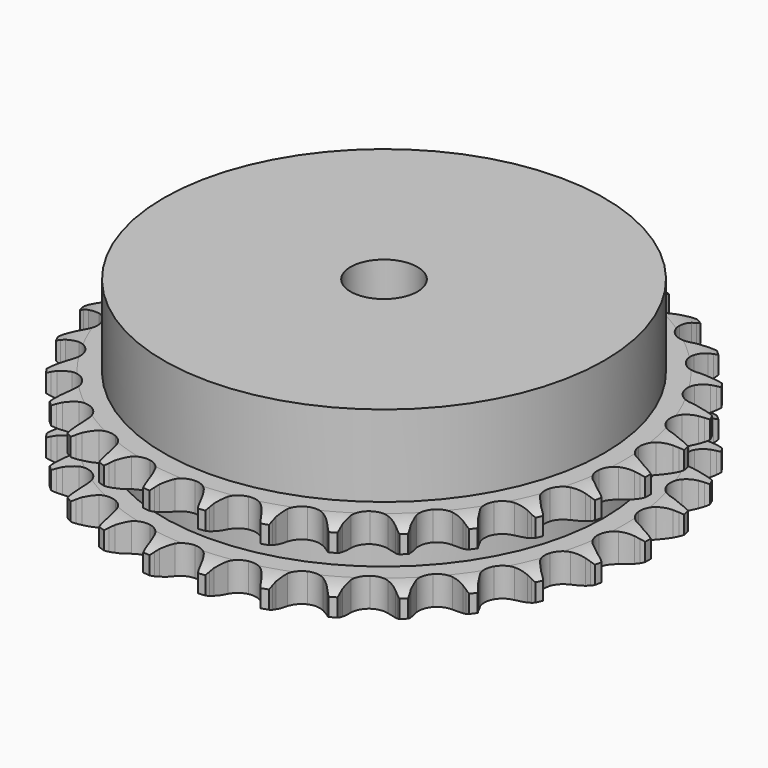
from build123d import *

# Parameters (mm, degrees)
PAD_DEPTH         = 15.4
SKETCH001_R       = 39.5
PAD001_DEPTH      = 30
SKETCH002_R       = 6
POCKET_DEPTH      = 0.001
POCKET_DEPTH_BACK = 30.001


with BuildPart() as part:
    # Sprocket → Pad (new body)
    with BuildSketch(Plane.XY):
        with BuildLine():
            ThreePointArc((-5.060688, 48.149228), (-4.457638, 47.360855), (-4.016581, 46.47166))
            Line((-4.016581, 46.47166), (-3.706936, 45.659362))
            ThreePointArc((-3.706936, 45.659362), (-3.214807, 44.599161), (-2.578774, 43.618507))
            ThreePointArc((-2.578774, 43.618507), (-1.440762, 42.672032), (0, 42.332778))
            ThreePointArc((0, 42.332778), (1.440762, 42.672032), (2.578774, 43.618507))
            ThreePointArc((2.578774, 43.618507), (3.214807, 44.599161), (3.706936, 45.659362))
            Line((3.706936, 45.659362), (4.016581, 46.47166))
            ThreePointArc((4.016581, 46.47166), (4.457638, 47.360855), (5.060688, 48.149228))
            ThreePointArc((5.060688, 48.149228), (5.486647, 47.252702), (5.733192, 46.291237))
            Line((5.733192, 46.291237), (5.867184, 45.432311))
            ThreePointArc((5.867184, 45.432311), (6.128131, 44.292958), (6.546376, 43.201495))
            ThreePointArc((6.546376, 43.201495), (7.462737, 42.039097), (8.801479, 41.407705))
            ThreePointArc((8.801479, 41.407705), (10.281292, 41.439995), (11.591219, 42.129181))
            Line((11.591219, 42.129181), (13.119046, 43.89088))
            ThreePointArc((13.119046, 43.89088), (13.345373, 44.262138), (13.590811, 44.621049))
            ThreePointArc((13.590811, 44.621049), (14.207104, 45.399112), (14.960887, 46.044875))
            ThreePointArc((14.960887, 46.044875), (15.19114, 45.079379), (15.232397, 44.087665))
            Line((15.232397, 44.087665), (15.184881, 43.21965))
            ThreePointArc((15.184881, 43.21965), (15.20324, 42.05094), (15.385418, 40.896371))
            ThreePointArc((15.385418, 40.896371), (16.040078, 39.568852), (17.218292, 38.672917))
            ThreePointArc((17.218292, 38.672917), (18.67248, 38.396831), (20.097073, 38.798607))
            Line((20.097073, 38.798607), (21.957791, 40.204156))
            ThreePointArc((21.957791, 40.204156), (22.25636, 40.520245), (22.571057, 40.820283))
            ThreePointArc((22.571057, 40.820283), (23.335651, 41.453209), (24.207223, 41.928141))
            ThreePointArc((24.207223, 41.928141), (24.231707, 40.935871), (24.065874, 39.95725))
            Line((24.065874, 39.95725), (23.838925, 39.118083))
            ThreePointArc((23.838925, 39.118083), (23.613895, 37.971095), (23.552043, 36.803879))
            ThreePointArc((23.552043, 36.803879), (23.916391, 35.369258), (24.882582, 34.247937))
            ThreePointArc((24.882582, 34.247937), (26.247592, 33.675541), (27.724587, 33.772348))
            Line((27.724587, 33.772348), (29.836874, 34.760318))
            ThreePointArc((29.836874, 34.760318), (30.194638, 35.007423), (30.564839, 35.235475))
            ThreePointArc((30.564839, 35.235475), (31.444317, 35.695603), (32.395588, 35.978946))
            ThreePointArc((32.395588, 35.978946), (32.213232, 35.003269), (31.847556, 34.080512))
            Line((31.847556, 34.080512), (31.451094, 33.306867))
            ThreePointArc((31.451094, 33.306867), (30.99251, 32.231731), (30.689331, 31.102881))
            ThreePointArc((30.689331, 31.102881), (30.747442, 29.623857), (31.459385, 28.326157))
            ThreePointArc((31.459385, 28.326157), (32.675558, 27.482468), (34.140405, 27.270075))
            Line((34.140405, 27.270075), (36.411943, 27.797286))
            ThreePointArc((36.411943, 27.797286), (36.813266, 27.964609), (37.222791, 28.110708))
            ThreePointArc((37.222791, 28.110708), (38.178717, 28.377927), (39.16811, 28.457298))
            ThreePointArc((39.16811, 28.457298), (38.786884, 27.540856), (38.237347, 26.714291))
            Line((38.237347, 26.714291), (37.6887, 26.039982))
            ThreePointArc((37.6887, 26.039982), (37.016602, 25.083685), (36.485348, 24.042537))
            ThreePointArc((36.485348, 24.042537), (36.234683, 22.583752), (36.661261, 21.166389))
            ThreePointArc((36.661261, 21.166389), (37.675445, 20.08828), (39.064122, 19.57597))
            Line((39.064122, 19.57597), (41.395636, 19.61938))
            ThreePointArc((41.395636, 19.61938), (41.822977, 19.699607), (42.253929, 19.757369))
            ThreePointArc((42.253929, 19.757369), (43.244523, 19.819999), (44.228798, 19.69193))
            ThreePointArc((44.228798, 19.69193), (43.665364, 18.874775), (42.955983, 18.180529))
            Line((42.955983, 18.180529), (42.279128, 17.635025))
            ThreePointArc((42.279128, 17.635025), (41.422892, 16.839362), (40.68678, 15.93142))
            ThreePointArc((40.68678, 15.93142), (40.138294, 14.556629), (40.260864, 13.081548))
            ThreePointArc((40.260864, 13.081548), (41.028734, 11.816137), (42.28055, 11.0263))
            Line((42.28055, 11.0263), (44.57014, 10.584013))
            ThreePointArc((44.57014, 10.584013), (45.004823, 10.573637), (45.438367, 10.540537))
            ThreePointArc((45.438367, 10.540537), (46.420336, 10.395843), (47.356475, 10.06593))
            ThreePointArc((47.356475, 10.06593), (46.635457, 9.383776), (45.797236, 8.852189))
            Line((45.797236, 8.852189), (45.021755, 8.459332))
            ThreePointArc((45.021755, 8.459332), (44.018803, 7.859078), (43.110005, 7.124023))
            ThreePointArc((43.110005, 7.124023), (42.28767, 5.893311), (42.100874, 4.42498))
            ThreePointArc((42.100874, 4.42498), (42.588871, 3.027573), (43.649116, 1.994728))
            Line((43.649116, 1.994728), (45.796716, 1.086074))
            ThreePointArc((45.796716, 1.086074), (46.219742, 0.985549), (46.63693, 0.863033))
            ThreePointArc((46.63693, 0.863033), (47.567358, 0.517338), (48.414447, 0))
            ThreePointArc((48.414447, 0), (47.567358, -0.517338), (46.63693, -0.863033))
            Line((46.63693, -0.863033), (45.796716, -1.086074))
            ThreePointArc((45.796716, -1.086074), (44.690881, -1.464686), (43.649116, -1.994728))
            ThreePointArc((43.649116, -1.994728), (42.588871, -3.027573), (42.100874, -4.42498))
            ThreePointArc((42.100874, -4.42498), (42.28767, -5.893311), (43.110005, -7.124023))
            Line((43.110005, -7.124023), (45.021755, -8.459332))
            ThreePointArc((45.021755, -8.459332), (45.414637, -8.645612), (45.797236, -8.852189))
            ThreePointArc((45.797236, -8.852189), (46.635457, -9.383776), (47.356475, -10.06593))
            ThreePointArc((47.356475, -10.06593), (46.420336, -10.395843), (45.438367, -10.540537))
            Line((45.438367, -10.540537), (44.57014, -10.584013))
            ThreePointArc((44.57014, -10.584013), (43.409752, -10.724435), (42.28055, -11.0263))
            ThreePointArc((42.28055, -11.0263), (41.028734, -11.816137), (40.260864, -13.081548))
            ThreePointArc((40.260864, -13.081548), (40.138294, -14.556629), (40.68678, -15.93142))
            Line((40.68678, -15.93142), (42.279128, -17.635025))
            ThreePointArc((42.279128, -17.635025), (42.624694, -17.898919), (42.955983, -18.180529))
            ThreePointArc((42.955983, -18.180529), (43.665364, -18.874775), (44.228798, -19.69193))
            ThreePointArc((44.228798, -19.69193), (43.244523, -19.819999), (42.253929, -19.757369))
            Line((42.253929, -19.757369), (41.395636, -19.61938))
            ThreePointArc((41.395636, -19.61938), (40.23141, -19.515476), (39.064122, -19.57597))
            ThreePointArc((39.064122, -19.57597), (37.675445, -20.08828), (36.661261, -21.166389))
            ThreePointArc((36.661261, -21.166389), (36.234683, -22.583752), (36.485348, -24.042537))
            Line((36.485348, -24.042537), (37.6887, -26.039982))
            ThreePointArc((37.6887, -26.039982), (37.971848, -26.369957), (38.237347, -26.714291))
            ThreePointArc((38.237347, -26.714291), (38.786884, -27.540856), (39.16811, -28.457298))
            ThreePointArc((39.16811, -28.457298), (38.178717, -28.377927), (37.222791, -28.110708))
            Line((37.222791, -28.110708), (36.411943, -27.797286))
            ThreePointArc((36.411943, -27.797286), (35.294761, -27.453596), (34.140405, -27.270075))
            ThreePointArc((34.140405, -27.270075), (32.675558, -27.482468), (31.459385, -28.326157))
            ThreePointArc((31.459385, -28.326157), (30.747442, -29.623857), (30.689331, -31.102881))
            Line((30.689331, -31.102881), (31.451094, -33.306867))
            ThreePointArc((31.451094, -33.306867), (31.65945, -33.688501), (31.847556, -34.080512))
            ThreePointArc((31.847556, -34.080512), (32.213232, -35.003269), (32.395588, -35.978946))
            ThreePointArc((32.395588, -35.978946), (31.444317, -35.695603), (30.564839, -35.235475))
            Line((30.564839, -35.235475), (29.836874, -34.760318))
            ThreePointArc((29.836874, -34.760318), (28.815562, -34.191863), (27.724587, -33.772348))
            ThreePointArc((27.724587, -33.772348), (26.247592, -33.675541), (24.882582, -34.247937))
            ThreePointArc((24.882582, -34.247937), (23.916391, -35.369258), (23.552043, -36.803879))
            Line((23.552043, -36.803879), (23.838925, -39.118083))
            ThreePointArc((23.838925, -39.118083), (23.963382, -39.534696), (24.065874, -39.95725))
            ThreePointArc((24.065874, -39.95725), (24.231707, -40.935871), (24.207223, -41.928141))
            ThreePointArc((24.207223, -41.928141), (23.335651, -41.453209), (22.571057, -40.820283))
            Line((22.571057, -40.820283), (21.957791, -40.204156))
            ThreePointArc((21.957791, -40.204156), (21.076985, -39.435781), (20.097073, -38.798607))
            ThreePointArc((20.097073, -38.798607), (18.67248, -38.396831), (17.218292, -38.672917))
            ThreePointArc((17.218292, -38.672917), (16.040078, -39.568852), (15.385418, -40.896371))
            Line((15.385418, -40.896371), (15.184881, -43.21965))
            ThreePointArc((15.184881, -43.21965), (15.219999, -43.653035), (15.232397, -44.087665))
            ThreePointArc((15.232397, -44.087665), (15.19114, -45.079379), (14.960887, -46.044875))
            ThreePointArc((14.960887, -46.044875), (14.207104, -45.399112), (13.590811, -44.621049))
            Line((13.590811, -44.621049), (13.119046, -43.89088))
            ThreePointArc((13.119046, -43.89088), (12.417243, -42.956166), (11.591219, -42.129181))
            ThreePointArc((11.591219, -42.129181), (10.281292, -41.439995), (8.801479, -41.407705))
            ThreePointArc((8.801479, -41.407705), (7.462737, -42.039097), (6.546376, -43.201495))
            Line((6.546376, -43.201495), (5.867184, -45.432311))
            ThreePointArc((5.867184, -45.432311), (5.811429, -45.863528), (5.733192, -46.291237))
            ThreePointArc((5.733192, -46.291237), (5.486647, -47.252702), (5.060688, -48.149228))
            ThreePointArc((5.060688, -48.149228), (4.457638, -47.360855), (4.016581, -46.47166))
            Line((4.016581, -46.47166), (3.706936, -45.659362))
            ThreePointArc((3.706936, -45.659362), (3.214807, -44.599161), (2.578774, -43.618507))
            ThreePointArc((2.578774, -43.618507), (1.440762, -42.672032), (0, -42.332778))
            ThreePointArc((0, -42.332778), (-1.440762, -42.672032), (-2.578774, -43.618507))
            Line((-2.578774, -43.618507), (-3.706936, -45.659362))
            ThreePointArc((-3.706936, -45.659362), (-3.851128, -46.069563), (-4.016581, -46.47166))
            ThreePointArc((-4.016581, -46.47166), (-4.457638, -47.360855), (-5.060688, -48.149228))
            ThreePointArc((-5.060688, -48.149228), (-5.486647, -47.252702), (-5.733192, -46.291237))
            Line((-5.733192, -46.291237), (-5.867184, -45.432311))
            ThreePointArc((-5.867184, -45.432311), (-6.128131, -44.292958), (-6.546376, -43.201495))
            ThreePointArc((-6.546376, -43.201495), (-7.462737, -42.039097), (-8.801479, -41.407705))
            ThreePointArc((-8.801479, -41.407705), (-10.281292, -41.439995), (-11.591219, -42.129181))
            Line((-11.591219, -42.129181), (-13.119046, -43.89088))
            ThreePointArc((-13.119046, -43.89088), (-13.345373, -44.262138), (-13.590811, -44.621049))
            ThreePointArc((-13.590811, -44.621049), (-14.207104, -45.399112), (-14.960887, -46.044875))
            ThreePointArc((-14.960887, -46.044875), (-15.19114, -45.079379), (-15.232397, -44.087665))
            Line((-15.232397, -44.087665), (-15.184881, -43.21965))
            ThreePointArc((-15.184881, -43.21965), (-15.20324, -42.05094), (-15.385418, -40.896371))
            ThreePointArc((-15.385418, -40.896371), (-16.040078, -39.568852), (-17.218292, -38.672917))
            ThreePointArc((-17.218292, -38.672917), (-18.67248, -38.396831), (-20.097073, -38.798607))
            Line((-20.097073, -38.798607), (-21.957791, -40.204156))
            ThreePointArc((-21.957791, -40.204156), (-22.25636, -40.520245), (-22.571057, -40.820283))
            ThreePointArc((-22.571057, -40.820283), (-23.335651, -41.453209), (-24.207223, -41.928141))
            ThreePointArc((-24.207223, -41.928141), (-24.231707, -40.935871), (-24.065874, -39.95725))
            Line((-24.065874, -39.95725), (-23.838925, -39.118083))
            ThreePointArc((-23.838925, -39.118083), (-23.613895, -37.971095), (-23.552043, -36.803879))
            ThreePointArc((-23.552043, -36.803879), (-23.916391, -35.369258), (-24.882582, -34.247937))
            ThreePointArc((-24.882582, -34.247937), (-26.247592, -33.675541), (-27.724587, -33.772348))
            Line((-27.724587, -33.772348), (-29.836874, -34.760318))
            ThreePointArc((-29.836874, -34.760318), (-30.194638, -35.007423), (-30.564839, -35.235475))
            ThreePointArc((-30.564839, -35.235475), (-31.444317, -35.695603), (-32.395588, -35.978946))
            ThreePointArc((-32.395588, -35.978946), (-32.213232, -35.003269), (-31.847556, -34.080512))
            Line((-31.847556, -34.080512), (-31.451094, -33.306867))
            ThreePointArc((-31.451094, -33.306867), (-30.99251, -32.231731), (-30.689331, -31.102881))
            ThreePointArc((-30.689331, -31.102881), (-30.747442, -29.623857), (-31.459385, -28.326157))
            ThreePointArc((-31.459385, -28.326157), (-32.675558, -27.482468), (-34.140405, -27.270075))
            Line((-34.140405, -27.270075), (-36.411943, -27.797286))
            ThreePointArc((-36.411943, -27.797286), (-36.813266, -27.964609), (-37.222791, -28.110708))
            ThreePointArc((-37.222791, -28.110708), (-38.178717, -28.377927), (-39.16811, -28.457298))
            ThreePointArc((-39.16811, -28.457298), (-38.786884, -27.540856), (-38.237347, -26.714291))
            Line((-38.237347, -26.714291), (-37.6887, -26.039982))
            ThreePointArc((-37.6887, -26.039982), (-37.016602, -25.083685), (-36.485348, -24.042537))
            ThreePointArc((-36.485348, -24.042537), (-36.234683, -22.583752), (-36.661261, -21.166389))
            ThreePointArc((-36.661261, -21.166389), (-37.675445, -20.08828), (-39.064122, -19.57597))
            Line((-39.064122, -19.57597), (-41.395636, -19.61938))
            ThreePointArc((-41.395636, -19.61938), (-41.822977, -19.699607), (-42.253929, -19.757369))
            ThreePointArc((-42.253929, -19.757369), (-43.244523, -19.819999), (-44.228798, -19.69193))
            ThreePointArc((-44.228798, -19.69193), (-43.665364, -18.874775), (-42.955983, -18.180529))
            Line((-42.955983, -18.180529), (-42.279128, -17.635025))
            ThreePointArc((-42.279128, -17.635025), (-41.422892, -16.839362), (-40.68678, -15.93142))
            ThreePointArc((-40.68678, -15.93142), (-40.138294, -14.556629), (-40.260864, -13.081548))
            ThreePointArc((-40.260864, -13.081548), (-41.028734, -11.816137), (-42.28055, -11.0263))
            Line((-42.28055, -11.0263), (-44.57014, -10.584013))
            ThreePointArc((-44.57014, -10.584013), (-45.004823, -10.573637), (-45.438367, -10.540537))
            ThreePointArc((-45.438367, -10.540537), (-46.420336, -10.395843), (-47.356475, -10.06593))
            ThreePointArc((-47.356475, -10.06593), (-46.635457, -9.383776), (-45.797236, -8.852189))
            Line((-45.797236, -8.852189), (-45.021755, -8.459332))
            ThreePointArc((-45.021755, -8.459332), (-44.018803, -7.859078), (-43.110005, -7.124023))
            ThreePointArc((-43.110005, -7.124023), (-42.28767, -5.893311), (-42.100874, -4.42498))
            ThreePointArc((-42.100874, -4.42498), (-42.588871, -3.027573), (-43.649116, -1.994728))
            Line((-43.649116, -1.994728), (-45.796716, -1.086074))
            ThreePointArc((-45.796716, -1.086074), (-46.219742, -0.985549), (-46.63693, -0.863033))
            ThreePointArc((-46.63693, -0.863033), (-47.567358, -0.517338), (-48.414447, 0))
            ThreePointArc((-48.414447, 0), (-47.567358, 0.517338), (-46.63693, 0.863033))
            Line((-46.63693, 0.863033), (-45.796716, 1.086074))
            ThreePointArc((-45.796716, 1.086074), (-44.690881, 1.464686), (-43.649116, 1.994728))
            ThreePointArc((-43.649116, 1.994728), (-42.588871, 3.027573), (-42.100874, 4.42498))
            ThreePointArc((-42.100874, 4.42498), (-42.28767, 5.893311), (-43.110005, 7.124023))
            Line((-43.110005, 7.124023), (-45.021755, 8.459332))
            ThreePointArc((-45.021755, 8.459332), (-45.414637, 8.645612), (-45.797236, 8.852189))
            ThreePointArc((-45.797236, 8.852189), (-46.635457, 9.383776), (-47.356475, 10.06593))
            ThreePointArc((-47.356475, 10.06593), (-46.420336, 10.395843), (-45.438367, 10.540537))
            Line((-45.438367, 10.540537), (-44.57014, 10.584013))
            ThreePointArc((-44.57014, 10.584013), (-43.409752, 10.724435), (-42.28055, 11.0263))
            ThreePointArc((-42.28055, 11.0263), (-41.028734, 11.816137), (-40.260864, 13.081548))
            ThreePointArc((-40.260864, 13.081548), (-40.138294, 14.556629), (-40.68678, 15.93142))
            Line((-40.68678, 15.93142), (-42.279128, 17.635025))
            ThreePointArc((-42.279128, 17.635025), (-42.624694, 17.898919), (-42.955983, 18.180529))
            ThreePointArc((-42.955983, 18.180529), (-43.665364, 18.874775), (-44.228798, 19.69193))
            ThreePointArc((-44.228798, 19.69193), (-43.244523, 19.819999), (-42.253929, 19.757369))
            Line((-42.253929, 19.757369), (-41.395636, 19.61938))
            ThreePointArc((-41.395636, 19.61938), (-40.23141, 19.515476), (-39.064122, 19.57597))
            ThreePointArc((-39.064122, 19.57597), (-37.675445, 20.08828), (-36.661261, 21.166389))
            ThreePointArc((-36.661261, 21.166389), (-36.234683, 22.583752), (-36.485348, 24.042537))
            Line((-36.485348, 24.042537), (-37.6887, 26.039982))
            ThreePointArc((-37.6887, 26.039982), (-37.971848, 26.369957), (-38.237347, 26.714291))
            ThreePointArc((-38.237347, 26.714291), (-38.786884, 27.540856), (-39.16811, 28.457298))
            ThreePointArc((-39.16811, 28.457298), (-38.178717, 28.377927), (-37.222791, 28.110708))
            Line((-37.222791, 28.110708), (-36.411943, 27.797286))
            ThreePointArc((-36.411943, 27.797286), (-35.294761, 27.453596), (-34.140405, 27.270075))
            ThreePointArc((-34.140405, 27.270075), (-32.675558, 27.482468), (-31.459385, 28.326157))
            ThreePointArc((-31.459385, 28.326157), (-30.747442, 29.623857), (-30.689331, 31.102881))
            Line((-30.689331, 31.102881), (-31.451094, 33.306867))
            ThreePointArc((-31.451094, 33.306867), (-31.65945, 33.688501), (-31.847556, 34.080512))
            ThreePointArc((-31.847556, 34.080512), (-32.213232, 35.003269), (-32.395588, 35.978946))
            ThreePointArc((-32.395588, 35.978946), (-31.444317, 35.695603), (-30.564839, 35.235475))
            Line((-30.564839, 35.235475), (-29.836874, 34.760318))
            ThreePointArc((-29.836874, 34.760318), (-28.815562, 34.191863), (-27.724587, 33.772348))
            ThreePointArc((-27.724587, 33.772348), (-26.247592, 33.675541), (-24.882582, 34.247937))
            ThreePointArc((-24.882582, 34.247937), (-23.916391, 35.369258), (-23.552043, 36.803879))
            Line((-23.552043, 36.803879), (-23.838925, 39.118083))
            ThreePointArc((-23.838925, 39.118083), (-23.963382, 39.534696), (-24.065874, 39.95725))
            ThreePointArc((-24.065874, 39.95725), (-24.231707, 40.935871), (-24.207223, 41.928141))
            ThreePointArc((-24.207223, 41.928141), (-23.335651, 41.453209), (-22.571057, 40.820283))
            Line((-22.571057, 40.820283), (-21.957791, 40.204156))
            ThreePointArc((-21.957791, 40.204156), (-21.076985, 39.435781), (-20.097073, 38.798607))
            ThreePointArc((-20.097073, 38.798607), (-18.67248, 38.396831), (-17.218292, 38.672917))
            ThreePointArc((-17.218292, 38.672917), (-16.040078, 39.568852), (-15.385418, 40.896371))
            Line((-15.385418, 40.896371), (-15.184881, 43.21965))
            ThreePointArc((-15.184881, 43.21965), (-15.219999, 43.653035), (-15.232397, 44.087665))
            ThreePointArc((-15.232397, 44.087665), (-15.19114, 45.079379), (-14.960887, 46.044875))
            ThreePointArc((-14.960887, 46.044875), (-14.207104, 45.399112), (-13.590811, 44.621049))
            Line((-13.590811, 44.621049), (-13.119046, 43.89088))
            ThreePointArc((-13.119046, 43.89088), (-12.417243, 42.956166), (-11.591219, 42.129181))
            ThreePointArc((-11.591219, 42.129181), (-10.281292, 41.439995), (-8.801479, 41.407705))
            ThreePointArc((-8.801479, 41.407705), (-7.462737, 42.039097), (-6.546376, 43.201495))
            Line((-6.546376, 43.201495), (-5.867184, 45.432311))
            ThreePointArc((-5.867184, 45.432311), (-5.811429, 45.863528), (-5.733192, 46.291237))
            ThreePointArc((-5.733192, 46.291237), (-5.486647, 47.252702), (-5.060688, 48.149228))
        make_face()
    extrude(amount=PAD_DEPTH)

    # Sketch → Groove (revolve, cut)
    with BuildSketch(Plane.XZ):
        with BuildLine():
            ThreePointArc((42.991101, 0), (45.227169, 0.253206), (47.35, 1))
            Line((47.35, 1), (47.35, 4.2))
            ThreePointArc((47.35, 4.2), (45.227169, 4.946794), (42.991101, 5.2))
            Line((39.5, 5.2), (42.991101, 5.2))
            Line((39.5, 10.2), (39.5, 5.2))
            Line((42.991101, 10.2), (39.5, 10.2))
            ThreePointArc((42.991101, 10.2), (45.227169, 10.453206), (47.35, 11.2))
            Line((47.35, 11.2), (47.35, 14.4))
            ThreePointArc((47.35, 14.4), (45.227169, 15.146794), (42.991101, 15.4))
            Line((42.991101, 15.4), (52.991101, 15.4))
            Line((52.991101, 15.4), (52.991101, 0))
            Line((42.991101, 0), (52.991101, 0))
        make_face()
    revolve(axis=Axis((0, 0, 0), (0, 0, 1)), mode=Mode.SUBTRACT)

    # Sketch001 → Pad001 (join)
    with BuildSketch(Plane.XY):
        Circle(SKETCH001_R)
    extrude(amount=PAD001_DEPTH)

    # Sketch002 → Pocket (cut, two sides)
    with BuildSketch(Plane.XY) as pocket_sk:
        Circle(SKETCH002_R)
    extrude(amount=-POCKET_DEPTH, mode=Mode.SUBTRACT)
    extrude(pocket_sk.sketch, amount=POCKET_DEPTH_BACK, mode=Mode.SUBTRACT)


solid = part.part
